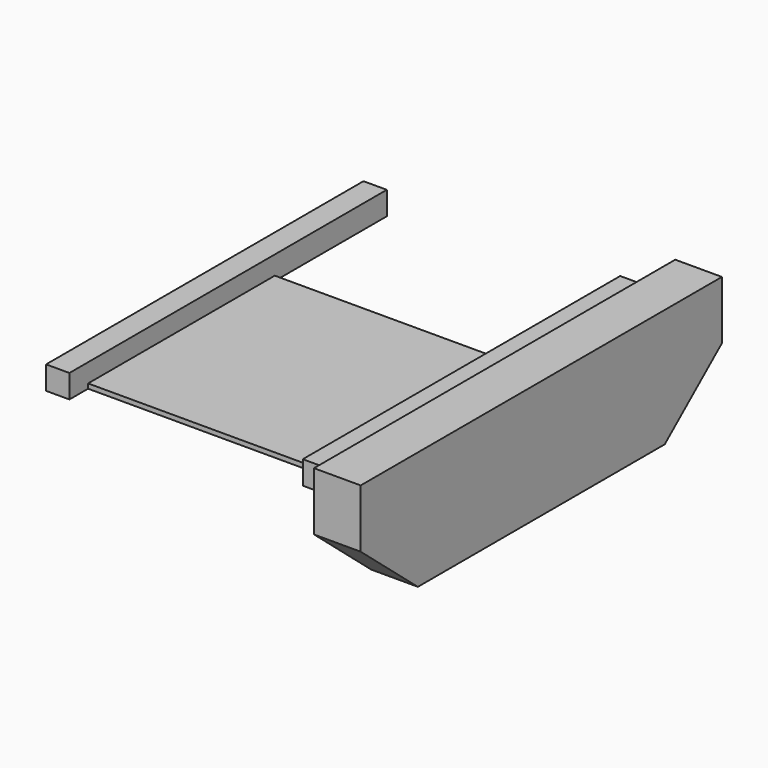
from build123d import *

# Parameters (mm, degrees)
F1_DEPTH = 5.08
F2_DEPTH = 25.4
F4_DEPTH = 50.8


with BuildPart() as f1:
    # F0 (on Top) → F1 (new body)
    with BuildSketch(Plane.XY):
        Polygon((-127, 127), (-127, -127), (127, -127), (127, 127), (0, 127), align=None)
    extrude(amount=F1_DEPTH)

    # F0 (on Top) → F2 (join)
    with BuildSketch(Plane.XY):
        Polygon((-127, -152.4), (-127, -127), (-127, 127), (-127, 279.4), (-152.4, 279.4), (-152.4, -127), (-152.4, -152.4), align=None)
        Polygon((127, 127), (127, -127), (127, -152.4), (152.4, -152.4), (152.4, -127), (152.4, 279.4), (127, 279.4), align=None)
    extrude(amount=F2_DEPTH)

    # F3 (on face) → F4 (join)
    with BuildSketch(Plane.YZ.offset(152.4)):
        Polygon((168.895449, 31.75), (-168.895449, 31.75), (-168.895449, -31.75), (-91.065334, -97.057221), (244.749885, -97.057221), (322.58, -31.75), (322.58, 31.75), align=None)
    extrude(amount=F4_DEPTH)


solid = f1.part
